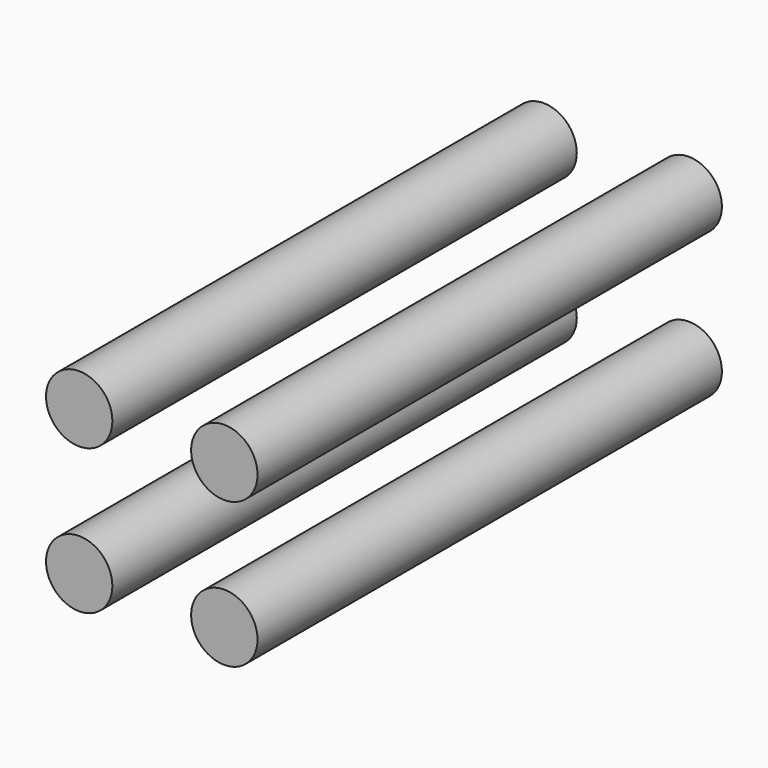
from build123d import *

# Parameters (mm, degrees)
CYLINDER023_R          = 1.6
CYLINDER023_DEPTH      = 28
CYLINDER023_ROLL_ANGLE = 90
CYLINDER024_R          = 1.6
CYLINDER024_DEPTH      = 28
CYLINDER024_ROLL_ANGLE = 90
CYLINDER019_R          = 1.6
CYLINDER019_DEPTH      = 28
CYLINDER019_ROLL_ANGLE = 90
CYLINDER021_R          = 1.6
CYLINDER021_DEPTH      = 28
CYLINDER021_ROLL_ANGLE = 90


with BuildPart() as cylinder023:
    # Cylinder023 → Cylinder023 (new body)
    with BuildSketch(Plane.XY):
        Circle(CYLINDER023_R)
    extrude(amount=CYLINDER023_DEPTH)


with BuildPart() as cylinder023_1:
    # Cylinder023 roll: moved
    add(cylinder023.part.rotate(Axis((0, 0, 0), (1, 0, 0)), CYLINDER023_ROLL_ANGLE))


with BuildPart() as cylinder023_2:
    # Cylinder023 placement: moved
    add(cylinder023_1.part.moved(Location((55, 20, -17))))


with BuildPart() as cylinder024:
    # Cylinder024 → Cylinder024 (new body)
    with BuildSketch(Plane.XY):
        Circle(CYLINDER024_R)
    extrude(amount=CYLINDER024_DEPTH)


with BuildPart() as cylinder024_1:
    # Cylinder024 roll: moved
    add(cylinder024.part.rotate(Axis((0, 0, 0), (1, 0, 0)), CYLINDER024_ROLL_ANGLE))


with BuildPart() as cylinder024_2:
    # Cylinder024 placement: moved
    add(cylinder024_1.part.moved(Location((55, 20, -10))))


with BuildPart() as cylinder019:
    # Cylinder019 → Cylinder019 (new body)
    with BuildSketch(Plane.XY):
        Circle(CYLINDER019_R)
    extrude(amount=CYLINDER019_DEPTH)


with BuildPart() as cylinder019_1:
    # Cylinder019 roll: moved
    add(cylinder019.part.rotate(Axis((0, 0, 0), (1, 0, 0)), CYLINDER019_ROLL_ANGLE))


with BuildPart() as cylinder019_2:
    # Cylinder019 placement: moved
    add(cylinder019_1.part.moved(Location((48, 20, -10))))


with BuildPart() as mount_holes_top_left:
    # Cylinder021 → Cylinder021 (new body)
    with BuildSketch(Plane.XY):
        Circle(CYLINDER021_R)
    extrude(amount=CYLINDER021_DEPTH)


with BuildPart() as mount_holes_top_left_1:
    # Cylinder021 roll: moved
    add(mount_holes_top_left.part.rotate(Axis((0, 0, 0), (1, 0, 0)), CYLINDER021_ROLL_ANGLE))


with BuildPart() as mount_holes_top_left_2:
    # Cylinder021 placement: moved
    add(mount_holes_top_left_1.part.moved(Location((48, 20, -17))))

    # Fusion057: union Cylinder023, Cylinder024, Cylinder019
    add(cylinder023_2.part)
    add(cylinder024_2.part)
    add(cylinder019_2.part)


with BuildPart() as mount_holes_top_left_3:
    # Fusion057 placement: moved
    add(mount_holes_top_left_2.part.moved(Location((-1, 0, 46))))


solid = mount_holes_top_left_3.part
